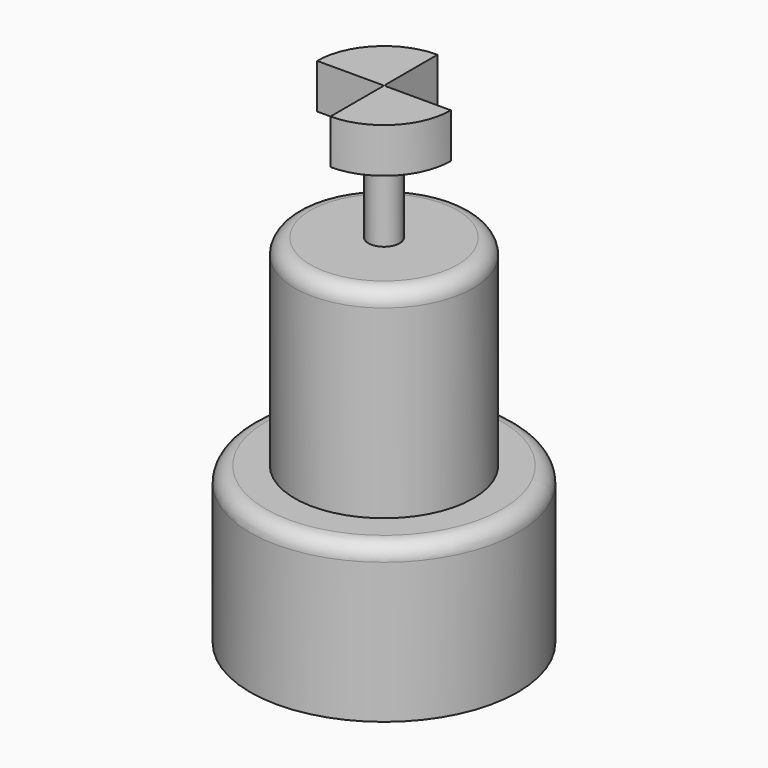
from build123d import *

# Parameters (mm, degrees)
F0_R     = 30
F0_R_2   = 20
F0_R_3   = 3.5
F1_DEPTH = 35
F2_DEPTH = 45
F3_DEPTH = 65
F6_DEPTH = 10
F7_R     = 3.5


with BuildPart() as f1:
    # F0 (on Top) → F1 (new body)
    with BuildSketch(Plane.XY):
        Circle(F0_R)
        Circle(F0_R_2, mode=Mode.SUBTRACT)
        Circle(F0_R_2)
        Circle(F0_R_3, mode=Mode.SUBTRACT)
    extrude(amount=-F1_DEPTH)

    # F0 (on Top) → F2 (join)
    with BuildSketch(Plane.XY):
        Circle(F0_R_2)
        Circle(F0_R_3, mode=Mode.SUBTRACT)
    extrude(amount=F2_DEPTH)

    # F0 (on Top) → F3 (join)
    with BuildSketch(Plane.XY):
        Circle(F0_R_3)
    extrude(amount=F3_DEPTH)

    # F5 (on offset) → F6 (join)
    with BuildSketch(Plane.XY.offset(65)):
        with BuildLine():
            Line((0, 3.582485), (0, 15))
            ThreePointArc((0, 15), (-10.606602, 10.606602), (-15, 0))
            Line((-15, 0), (-1.836112, 0))
            Line((-1.836112, 0), (-0.225955, 0))
            Line((-0.225955, 0), (0, -0.090901))
            Line((0, -0.090901), (0, -1.836112))
            Line((0, -1.836112), (0, -15))
            ThreePointArc((0, -15), (10.606602, -10.606602), (15, 0))
            Line((15, 0), (1.836112, 0))
            Line((1.836112, 0), (0.280118, 0))
            Line((0.280118, 0), (0, 0.357013))
            Line((0, 0.357013), (0, 3.582485))
        make_face()
    extrude(amount=F6_DEPTH)

    # F7
    f7_edges = [f1.edges().sort_by_distance(p)[0] for p in [
        (-20, 0, 45),
        (-30, 0, 0),
    ]]
    fillet(f7_edges, radius=F7_R)


solid = f1.part
